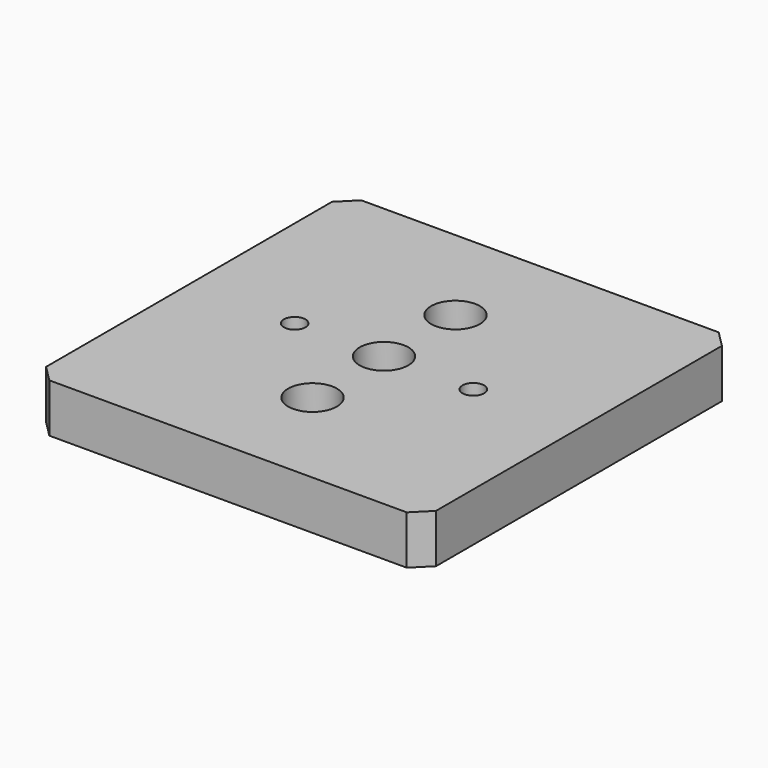
from build123d import *

# Parameters (mm, degrees)
F0_W           = 152.4
F0_H           = 152.4
F1_DEPTH       = 19.05
F3_D           = 8.4328
F4_D           = 10.3124
F4_CBORE_D     = 19.05
F4_CBORE_DEPTH = 12.7
F5_SIZE        = 6.35


with BuildPart() as f1:
    # F0 (on Top) → F1 (new body)
    with BuildSketch(Plane.XY):
        Rectangle(F0_W, F0_H)
    extrude(amount=F1_DEPTH)

    # F3 (through all)
    with Locations(Plane.XY.offset(19.05)):
        with Locations((-34.925, 0), (34.925, 0)):
            Hole(F3_D / 2)

    # F4 (through all)
    with Locations(Plane.XY.offset(19.05)):
        with Locations((0, 34.925), (0, 0), (0, -34.925)):
            CounterBoreHole(F4_D / 2, F4_CBORE_D / 2, F4_CBORE_DEPTH)

    # F5
    f5_edges = [f1.edges().sort_by_distance(p)[0] for p in [
        (-76.2, 76.2, 9.525),
        (-76.2, -76.2, 9.525),
        (76.2, -76.2, 9.525),
        (76.2, 76.2, 9.525),
    ]]
    chamfer(f5_edges, length=F5_SIZE)


solid = f1.part
